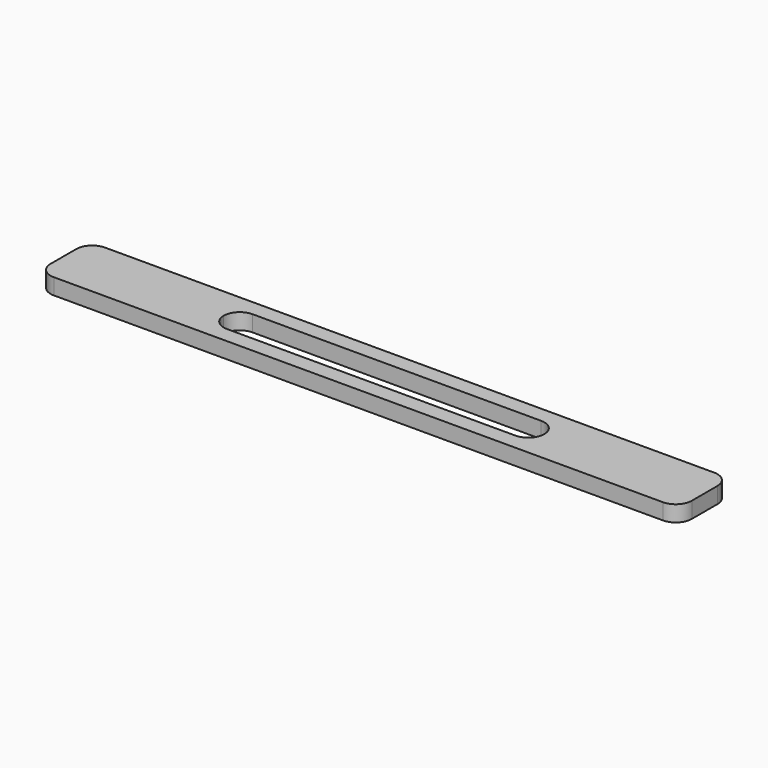
from build123d import *

# Parameters (mm, degrees)
F0_W     = 200
F0_H     = 20
F1_DEPTH = 5
F2_R     = 5


with BuildPart() as f1:
    # F0 (on Top) → F1 (new body)
    with BuildSketch(Plane.XY):
        Rectangle(F0_W, F0_H)
        with BuildLine():
            ThreePointArc((50, 0), (48.535534, -3.535534), (45, -5))
            Line((45, -5), (-45, -5))
            ThreePointArc((-45, -5), (-48.535534, -3.535534), (-50, 0))
            ThreePointArc((-50, 0), (-48.535534, 3.535534), (-45, 5))
            Line((-45, 5), (45, 5))
            ThreePointArc((45, 5), (48.535534, 3.535534), (50, 0))
        make_face(mode=Mode.SUBTRACT)
    extrude(amount=F1_DEPTH)

    # F2
    f2_edges = [f1.edges().sort_by_distance(p)[0] for p in [
        (-100, -10, 2.5),
        (100, -10, 2.5),
        (100, 10, 2.5),
        (-100, 10, 2.5),
    ]]
    fillet(f2_edges, radius=F2_R)


solid = f1.part
